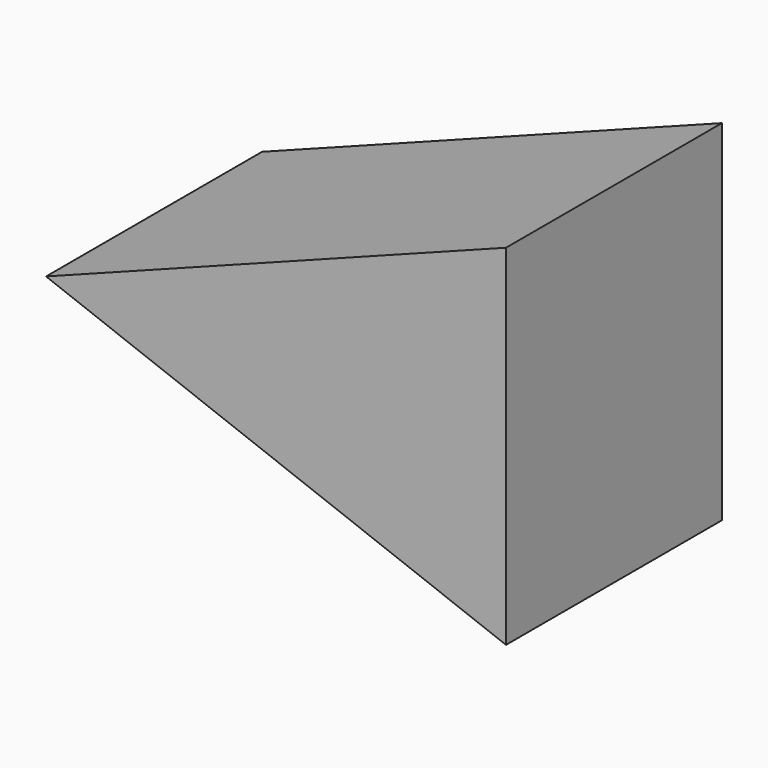
from build123d import *

# Parameters (mm, degrees)
F1_DEPTH = 25.4


with BuildPart() as f1:
    # F0 (on Front) → F1 (new body)
    with BuildSketch(Plane.XZ):
        Polygon((-43.27672, 0), (0, 0), (0, 16.451471), align=None)
    extrude(amount=F1_DEPTH)

    # F2: F1 across plane


with BuildPart() as f1_1:
    add(f1.part)
    add(f1.part.mirror(Plane.XY))


solid = f1_1.part
